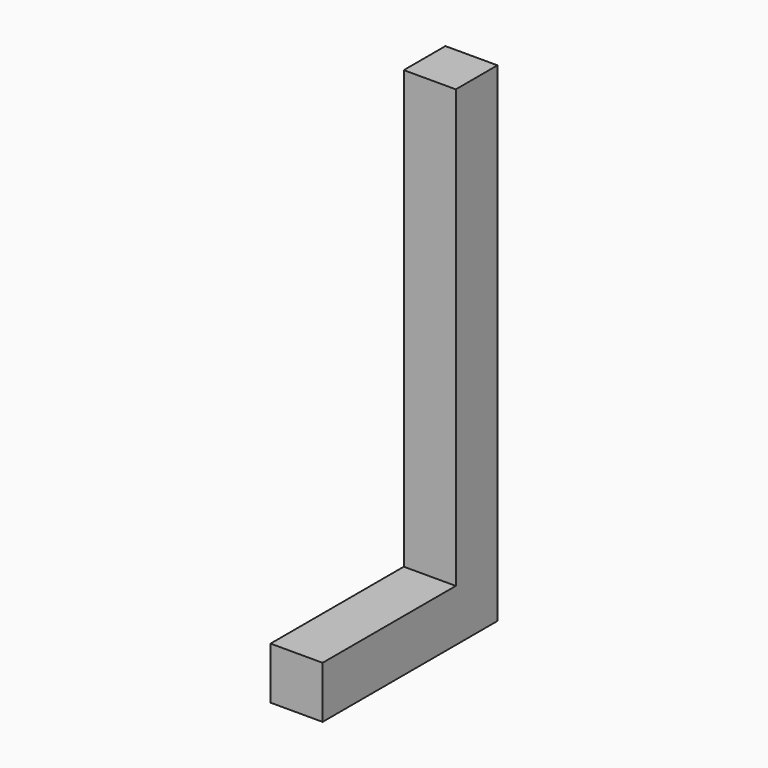
from build123d import *

# Parameters (mm, degrees)
F0_W     = 127
F0_H     = 127
F1_DEPTH = 533.4
F2_W     = 127
F2_H     = 127
F3_DEPTH = 1193.8


with BuildPart() as f1:
    # F0 (on Front) → F1 (new body)
    with BuildSketch(Plane.XZ):
        Rectangle(F0_W, F0_H)
    extrude(amount=F1_DEPTH)

    # F2 (on face) → F3 (join)
    with BuildSketch(Plane(origin=(0, 0, -63.5), x_dir=(1, 0, 0), z_dir=(0, 0, -1))):
        with Locations((0, 63.5)):
            Rectangle(F2_W, F2_H)
    extrude(amount=-F3_DEPTH)


solid = f1.part
